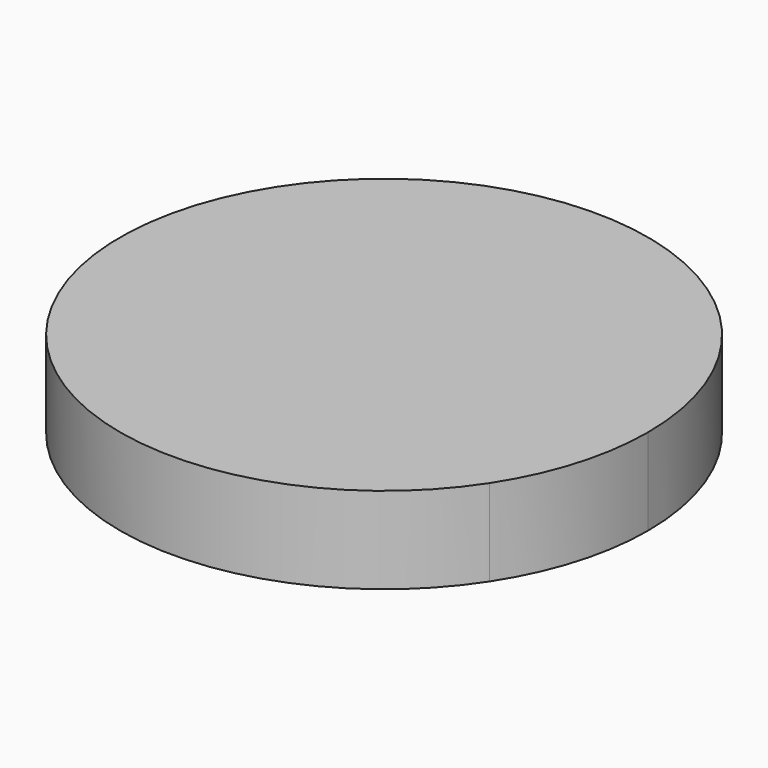
from build123d import *

# Parameters (mm, degrees)
F1_DEPTH = 3


with BuildPart() as f1:
    # F0 (on Top) → F1 (new body)
    with BuildSketch(Plane.XY):
        with BuildLine():
            ThreePointArc((9.141332, 0), (-2.608448, 8.761276), (-7.652709, -5))
            Line((-7.652709, -5), (7.652709, -5))
            ThreePointArc((7.652709, -5), (8.761276, -2.608448), (9.141332, 0))
        make_face()
        with BuildLine():
            Line((7.652709, -5), (-7.652709, -5))
            ThreePointArc((-7.652709, -5), (0, -9.141332), (7.652709, -5))
        make_face()
    extrude(amount=F1_DEPTH)


solid = f1.part
